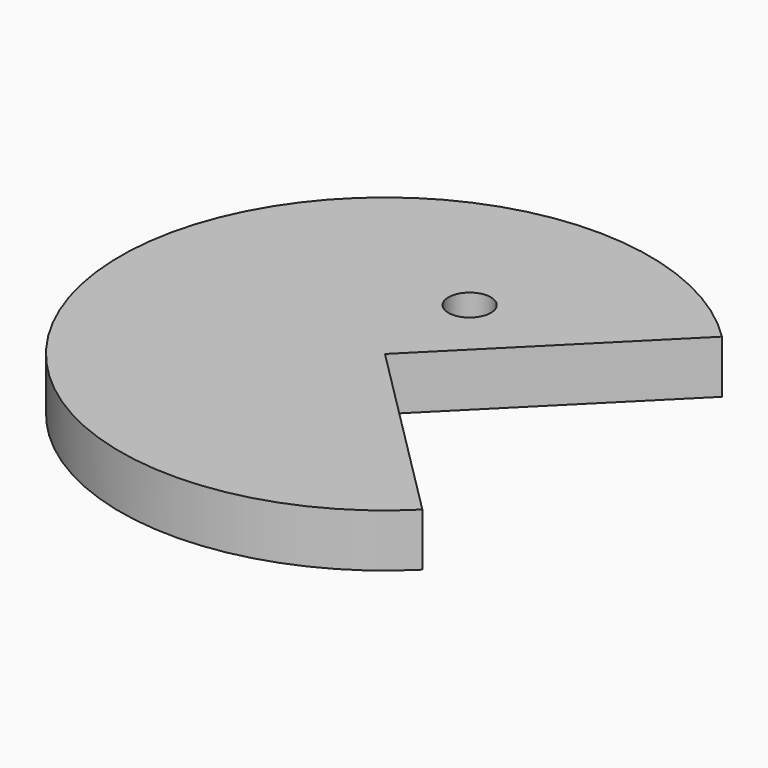
from build123d import *

# Parameters (mm, degrees)
CYLINDER001_R            = 2
CYLINDER001_DEPTH        = 10
CYLINDER_W               = 25
CYLINDER_H               = 5
CYLINDER_ANGLE           = 270
CYLINDER_PLACEMENT_ANGLE = 45


with BuildPart() as ull:
    # Cylinder001 → Cylinder001 (new body)
    with BuildSketch(Plane(origin=(0, 10, -2), x_dir=(1, 0, 0), z_dir=(0, 0, 1))):
        Circle(CYLINDER001_R)
    extrude(amount=CYLINDER001_DEPTH)


with BuildPart() as pac_man:
    # Cylinder → Cylinder (revolve)
    with BuildSketch(Plane.XZ):
        with Locations((12.5, 2.5)):
            Rectangle(CYLINDER_W, CYLINDER_H)
    revolve(axis=Axis((0, 0, 0), (0, 0, 1)), revolution_arc=CYLINDER_ANGLE)


with BuildPart() as pac_man_1:
    # Cylinder placement: moved
    add(pac_man.part.rotate(Axis((0, 0, 0), (0, 0, 1)), CYLINDER_PLACEMENT_ANGLE))

    # Cut: cut Ull
    add(ull.part, mode=Mode.SUBTRACT)


solid = pac_man_1.part
